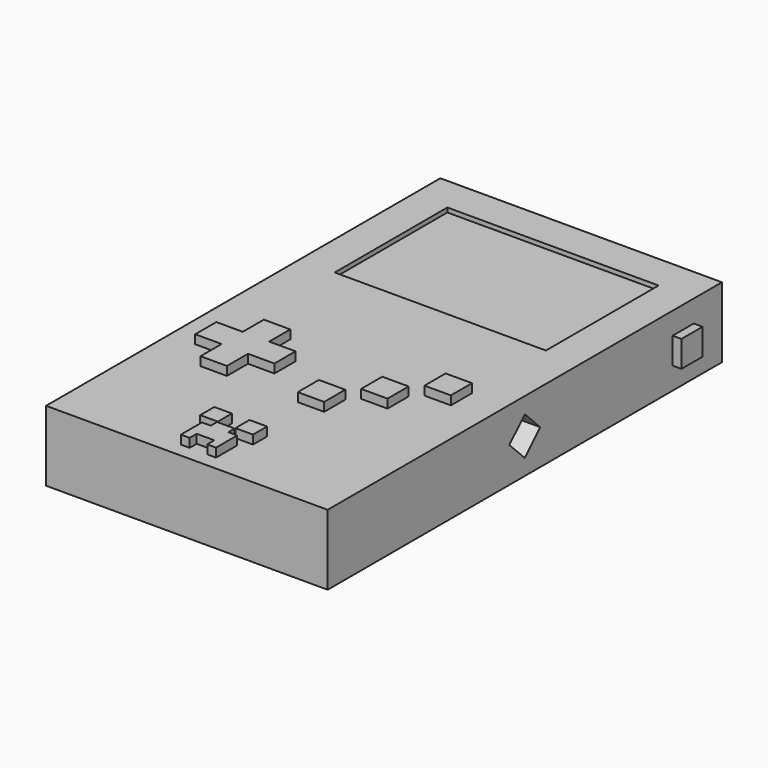
from build123d import *

# Parameters (mm, degrees)
F0_W     = 32
F0_H     = 56
F1_DEPTH = 8
F2_W     = 3
F2_H     = 3
F3_DEPTH = 1
F4_W     = 24
F4_H     = 16
F5_DEPTH = 0.5
F4_W_2   = 3
F4_H_2   = 3
F4_W_3   = 2
F4_H_3   = 2
F6_DEPTH = 1
F8_DEPTH = 4.1


with BuildPart() as f1:
    # F0 (on Top) → F1 (new body)
    with BuildSketch(Plane.XY):
        Rectangle(F0_W, F0_H)
    extrude(amount=F1_DEPTH)

    # F2 (on face) → F3 (join)
    with BuildSketch(Plane.YZ.offset(16)):
        with Locations((22.5, 4)):
            Rectangle(F2_W, F2_H)
    extrude(amount=F3_DEPTH)

    # F4 (on face) → F5 (cut)
    with BuildSketch(Plane.XY.offset(8)):
        with Locations((0, 16)):
            Rectangle(F4_W, F4_H)
    extrude(amount=-F5_DEPTH, mode=Mode.SUBTRACT)

    # F4 (on face) → F6 (join)
    with BuildSketch(Plane.XY.offset(8)):
        Polygon((-10.052171, -7.5), (-13.052171, -7.5), (-13.052171, -10.5), (-10.052171, -10.5), (-10.052171, -13.5), (-7.052171, -13.5), (-7.052171, -10.5), (-4.052171, -10.5), (-4.052171, -7.5), (-7.052171, -7.5), (-7.052171, -4.5), (-10.052171, -4.5), align=None)
        with Locations((2.5, -12)):
            Rectangle(F4_W_2, F4_H_2)
        with Locations((6.5, -8)):
            Rectangle(F4_W_2, F4_H_2)
        with Locations((10.5, -4)):
            Rectangle(F4_W_2, F4_H_2)
        with Locations((-2, -21.35515)):
            Rectangle(F4_W_3, F4_H_3)
        with Locations((2, -21.35515)):
            Rectangle(F4_W_3, F4_H_3)
        Polygon((-1, -23.35515), (-2, -23.35515), (-2, -26.35515), (-1, -26.35515), (-1, -25.35515), (0, -25.35515), (1, -25.35515), (1, -26.35515), (2, -26.35515), (2, -23.35515), (1, -23.35515), (1, -22.45515), (-1, -22.45515), align=None)
    extrude(amount=F6_DEPTH)

    # F7 (on face) → F8 (cut)
    with BuildSketch(Plane.YZ.offset(16)):
        Polygon((0, 1.8), (2.192031, 3.992031), (0, 6.184062), (-2.192031, 3.992031), align=None)
    extrude(amount=-F8_DEPTH, mode=Mode.SUBTRACT)


solid = f1.part
